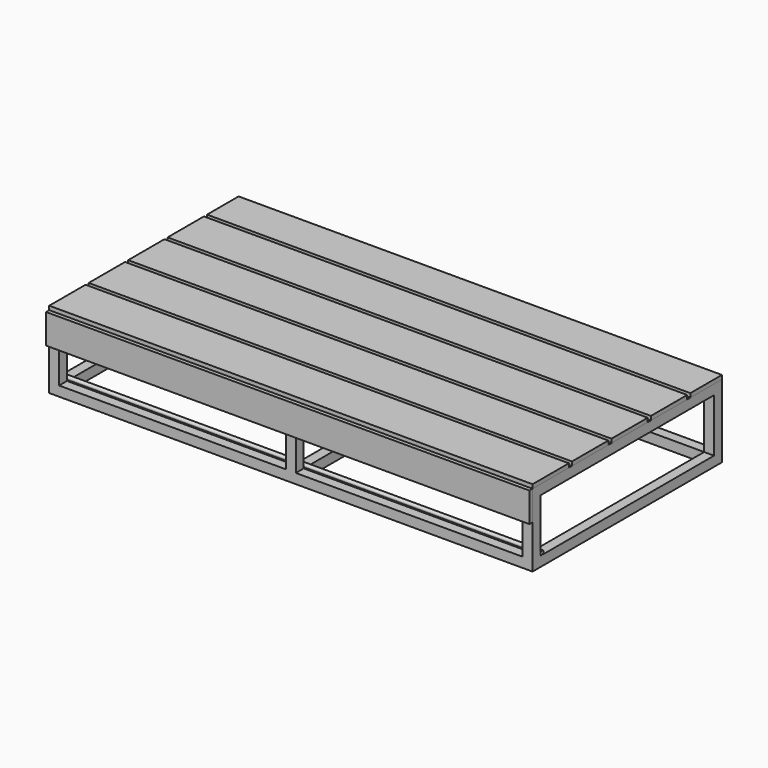
from build123d import *

# Parameters (mm, degrees)
F0_W      = 50
F0_H      = 50
F0_H_2    = 1100
F1_DEPTH  = 50
F2_W      = 50
F2_H      = 50
F3_DEPTH  = 270
F4_W      = 2450
F4_H      = 1200
F4_W_2    = 25
F4_H_2    = 1100
F4_W_3    = 50
F5_DEPTH  = 50
F6_R      = 9
F7_DEPTH  = 2450
F9_DEPTH  = 20
F10_W     = 2500
F10_H     = 1200
F11_DEPTH = 20
F12_W     = 20
F12_H     = 20
F13_DEPTH = 2500
F14_W     = 50
F14_H     = 170
F15_DEPTH = 1220


with BuildPart() as f1:
    # F0 (on Top) → F1 (new body)
    with BuildSketch(Plane.XY):
        with Locations((1200, -575)):
            Rectangle(F0_W, F0_H)
        Polygon((-1175, -600), (1175, -600), (1175, -550), (25, -550), (0, -550), (-25, -550), (-1175, -550), align=None)
        with Locations((1200, 0)):
            Rectangle(F0_W, F0_H_2)
        with Locations((-1200, -575)):
            Rectangle(F0_W, F0_H)
        with Locations((1200, 575)):
            Rectangle(F0_W, F0_H)
        with Locations((-1200, 0)):
            Rectangle(F0_W, F0_H_2)
        Polygon((25, 550), (1175, 550), (1175, 600), (-1175, 600), (-1175, 550), (-25, 550), (0, 550), align=None)
        with Locations((-1200, 575)):
            Rectangle(F0_W, F0_H)
        Polygon((0, -550), (25, -550), (25, 0), (25, 550), (0, 550), (0, 0), align=None)
        Polygon((-25, 0), (-25, -550), (0, -550), (0, 0), (0, 550), (-25, 550), align=None)
    extrude(amount=F1_DEPTH)

    # F2 (on face) → F3 (join)
    with BuildSketch(Plane.XY.offset(50)):
        with Locations((0, 575)):
            Rectangle(F2_W, F2_H)
        with Locations((-1200, 575)):
            Rectangle(F2_W, F2_H)
        with Locations((-1200, -575)):
            Rectangle(F2_W, F2_H)
        with Locations((0, -575)):
            Rectangle(F2_W, F2_H)
        with Locations((1200, -575)):
            Rectangle(F2_W, F2_H)
        with Locations((1200, 575)):
            Rectangle(F2_W, F2_H)
    extrude(amount=F3_DEPTH)

    # F4 (on face) → F5 (join)
    with BuildSketch(Plane.XY.offset(320)):
        Rectangle(F4_W, F4_H)
        Polygon((1175, 550), (1175, -550), (625, -550), (600, -550), (575, -550), (25, -550), (-25, -550), (-575, -550), (-600, -550), (-625, -550), (-1175, -550), (-1175, 550), (-625, 550), (-600, 550), (-575, 550), (-25, 550), (25, 550), (575, 550), (600, 550), (625, 550), align=None, mode=Mode.SUBTRACT)
        with Locations((-587.5, 0)):
            Rectangle(F4_W_2, F4_H_2)
        with Locations((-612.5, 0)):
            Rectangle(F4_W_2, F4_H_2)
        with Locations((612.5, 0)):
            Rectangle(F4_W_2, F4_H_2)
        with Locations((587.5, 0)):
            Rectangle(F4_W_2, F4_H_2)
        Rectangle(F4_W_3, F4_H_2)
    extrude(amount=F5_DEPTH)

    # F6 (on face) → F7 (join)
    with BuildSketch(Plane(origin=(-1225, 0, 0), x_dir=(0, -1, 0), z_dir=(-1, 0, 0))):
        with Locations((540, 60)):
            Circle(F6_R)
        with BuildLine():
            ThreePointArc((550.5, 60), (529.625753, 61.620185), (550, 56.798438))
            ThreePointArc((550, 56.798438), (550.374247, 58.379815), (550.5, 60))
        make_face()
        with Locations((540, 60)):
            Circle(F6_R, mode=Mode.SUBTRACT)
    extrude(amount=-F7_DEPTH)


with BuildPart() as f9:
    # F8 (on face) → F9 (new body)
    with BuildSketch(Plane.XZ.offset(600)):
        Polygon((1225, 220), (1225, 370), (-1225, 370), (-1275, 370), (-1275, 220), align=None)
    extrude(amount=F9_DEPTH)


with BuildPart() as f11:
    # F10 (on face) → F11 (new body)
    with BuildSketch(Plane.XY.offset(370)):
        with Locations((-25, 0)):
            Rectangle(F10_W, F10_H)
    extrude(amount=F11_DEPTH)

    # F12 (on face) → F13 (cut, through all)
    with BuildSketch(Plane(origin=(-1275, 0, 0), x_dir=(0, -1, 0), z_dir=(-1, 0, 0))):
        with Locations((610, 380)):
            Rectangle(F12_W, F12_H)
        with Locations((360, 380)):
            Rectangle(F12_W, F12_H)
        with Locations((110, 380)):
            Rectangle(F12_W, F12_H)
        with Locations((-140, 380)):
            Rectangle(F12_W, F12_H)
        with Locations((-390, 380)):
            Rectangle(F12_W, F12_H)
    extrude(amount=-F13_DEPTH, mode=Mode.SUBTRACT)


with BuildPart() as f15_tool:
    # F14 (on face) → F15 (new body, through all)
    with BuildSketch(Plane.XZ.offset(620)):
        with Locations((-1250, 305)):
            Rectangle(F14_W, F14_H)
    extrude(amount=-F15_DEPTH)


with BuildPart() as f9_1:
    add(f9.part)

    # F15: cut by f15_tool
    add(f15_tool.part, mode=Mode.SUBTRACT)


with BuildPart() as f11_1:
    add(f11.part)

    # F15: cut by f15_tool
    add(f15_tool.part, mode=Mode.SUBTRACT)


solid = Compound([f1.part, f9_1.part, f11_1.part])
